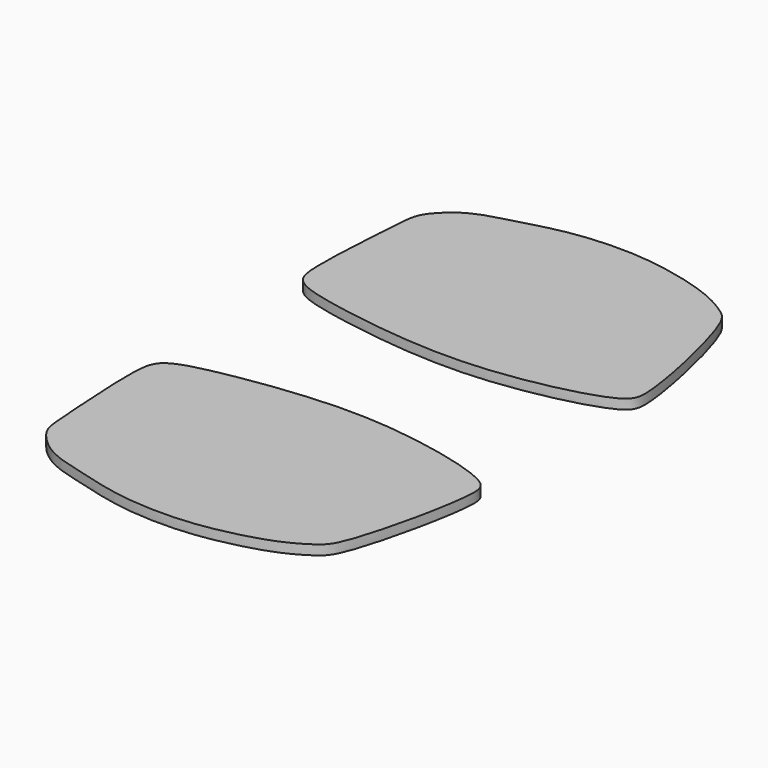
from build123d import *

# Parameters (mm, degrees)
F1_DEPTH = 1.49999954


with BuildPart() as f1:
    # F0 (on Top) → F1 (new body)
    with BuildSketch(Plane.XY):
        with BuildLine():
            add(Edge.make_bspline(
                [(-24.5145951135, 12.8785391069), (-23.4701738434, 13.8153243795), (-18.5186864853, 15.2668604604), (-4.3116945252, 17.4537990113), (9.8850632183, 17.2129202894), (25.2459280139, 13.47323829), (26.6094661501, 9.2891034888), (22.2783905626, -10.1764336659), (19.5936896703, -12.5640459709), (15.2103124202, -15.1658130679), (7.1692554398, -17.2543797377), (0.0471181572, -17.9092621965), (-7.9390684451, -17.3113491984), (-15.3828935072, -15.1196640253), (-20.6072173632, -13.7868935149), (-24.7258743098, -9.8135450315), (-25.0239767365, -6.0365459714), (-26.1428348503, 9.0940611175), (-25.373009313, 12.1085913828), (-24.5145951135, 12.8785391069)],
                knots=[0, 0, 0, 0, 0.0503613244, 0.1292512619, 0.2119018138, 0.2903705646, 0.331208079, 0.4227038256, 0.4625560811, 0.5075626186, 0.5677200705, 0.6240082913, 0.6828569743, 0.7408726081, 0.789568569, 0.8359597487, 0.8777537452, 0.9586078173, 1, 1, 1, 1], degree=3))
        make_face()
        with BuildLine():
            add(Edge.make_bspline(
                [(-24.5145951135, 12.8785391069), (-23.4701738434, 13.8153243795), (-18.5186864853, 15.2668604604), (-4.3116945252, 17.4537990113), (9.8850632183, 17.2129202894), (25.2459280139, 13.47323829), (26.6094661501, 9.2891034888), (22.2783905626, -10.1764336659), (19.5936896703, -12.5640459709), (15.2103124202, -15.1658130679), (7.1692554398, -17.2543797377), (0.0471181572, -17.9092621965), (-7.9390684451, -17.3113491984), (-15.3828935072, -15.1196640253), (-20.6072173632, -13.7868935149), (-24.7258743098, -9.8135450315), (-25.0239767365, -6.0365459714), (-26.1428348503, 9.0940611175), (-25.373009313, 12.1085913828), (-24.5145951135, 12.8785391069)],
                knots=[0, 0, 0, 0, 0.0503613244, 0.1292512619, 0.2119018138, 0.2903705646, 0.331208079, 0.4227038256, 0.4625560811, 0.5075626186, 0.5677200705, 0.6240082913, 0.6828569743, 0.7408726081, 0.789568569, 0.8359597487, 0.8777537452, 0.9586078173, 1, 1, 1, 1], degree=3))
        make_face()
    extrude(amount=F1_DEPTH)


with BuildPart() as f1b:
    # F0 (on Top) → F1, piece 2 (new body)
    with BuildSketch(Plane.XY):
        with BuildLine():
            add(Edge.make_bspline(
                [(-24.5145951135, 40.1014033043), (-23.4701738434, 39.1646180316), (-18.5186864853, 37.7130819508), (-4.3116945252, 35.5261433999), (9.8850632183, 35.7670221217), (25.2459280139, 39.5067041212), (26.6094661501, 43.6908389224), (22.2783905626, 63.1563760771), (19.5936896703, 65.5439883821), (15.2103124202, 68.1457554791), (7.1692554398, 70.2343221489), (0.0471181572, 70.8892046077), (-7.9390684451, 70.2912916096), (-15.3828935072, 68.0996064365), (-20.6072173632, 66.7668359261), (-24.7258743098, 62.7934874426), (-25.0239767365, 59.0164883826), (-26.1428348503, 43.8858812937), (-25.373009313, 40.8713510284), (-24.5145951135, 40.1014033043)],
                knots=[0, 0, 0, 0, 0.0503613244, 0.1292512619, 0.2119018138, 0.2903705646, 0.331208079, 0.4227038256, 0.4625560811, 0.5075626186, 0.5677200705, 0.6240082913, 0.6828569743, 0.7408726081, 0.789568569, 0.8359597487, 0.8777537452, 0.9586078173, 1, 1, 1, 1], degree=3))
        make_face()
    extrude(amount=F1_DEPTH)


solid = Compound([f1.part, f1b.part])
